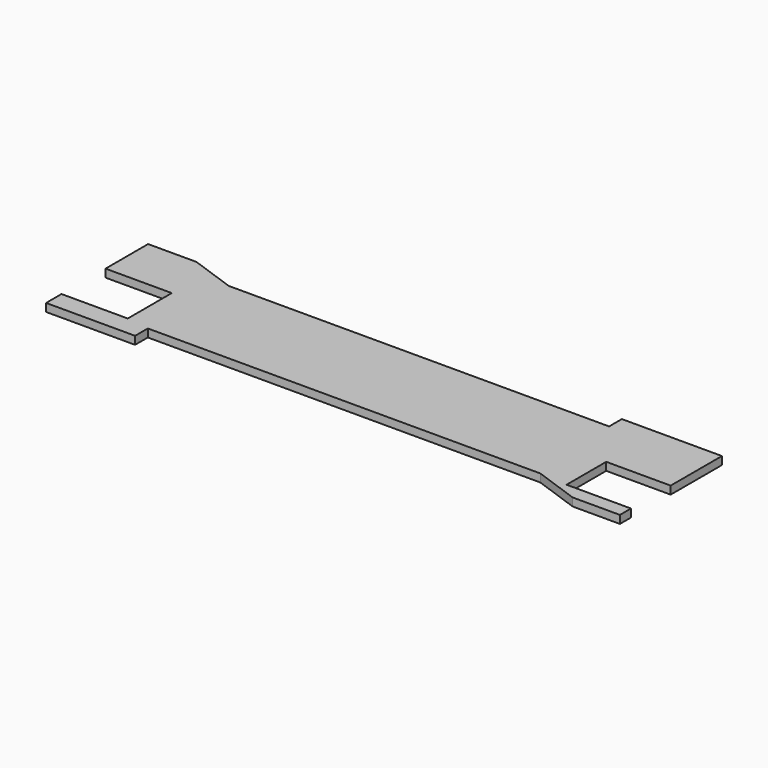
from build123d import *

# Parameters (mm, degrees)
F1_DEPTH = 3.175


with BuildPart() as f1:
    # F0 (on Top) → F1 (new body)
    with BuildSketch(Plane.XY):
        Polygon((114.3, -0.129957), (114.3, 25.4), (88.635871, 25.4), (74.440457, 25.4), (74.440457, 19.05), (-77.090627, 19.05), (-95.05114, 25.4), (-114.3, 25.4), (-114.3, 4.206217), (-87.913173, 4.206217), (-87.913173, -17.715551), (-114.3, -17.715551), (-114.3, -25.4), (-78.848398, -25.4), (-78.848398, -19.05), (77.501937, -19.05), (95.46245, -25.4), (114.3, -25.4), (114.3, -19.883638), (88.635871, -19.883638), (88.635871, -0.129957), align=None)
    extrude(amount=F1_DEPTH)


solid = f1.part
